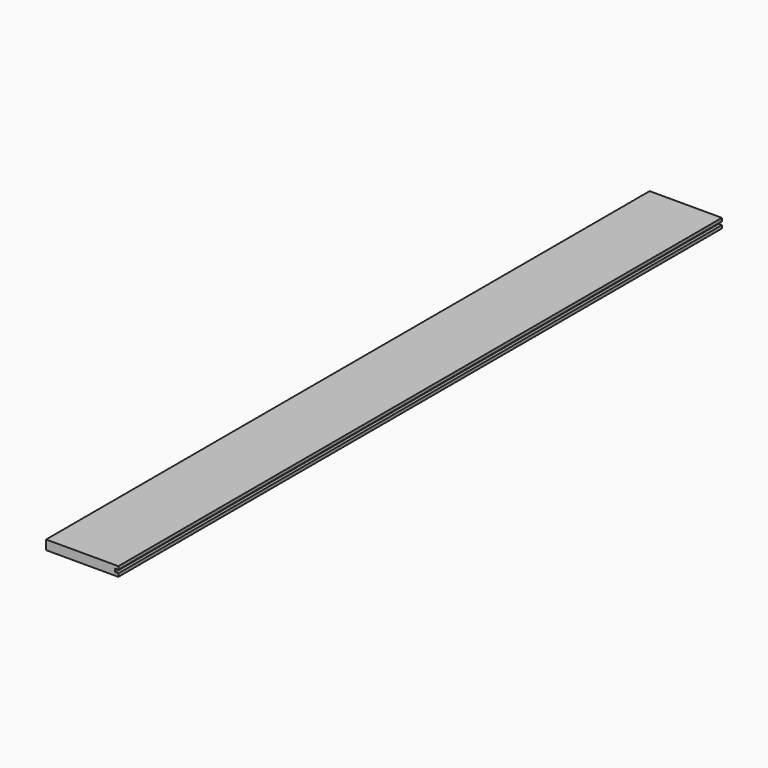
from build123d import *

# Parameters (mm, degrees)
F0_W     = 6.35
F0_H     = 6.35
F1_DEPTH = 762


with BuildPart() as f1:
    # F0 (on Front) → F1 (new body, symmetric)
    with BuildSketch(Plane.XZ):
        Polygon((-73.025, -3.175), (-73.025, -9.525), (73.025, -9.525), (73.025, -3.175), (66.675, -3.175), (66.675, 3.175), (73.025, 3.175), (73.025, 9.525), (-73.025, 9.525), (-73.025, 3.175), (-66.675, 3.175), (-66.675, -3.175), align=None)
        with Locations((-69.85, 0)):
            Rectangle(F0_W, F0_H)
    extrude(amount=F1_DEPTH, both=True)


solid = f1.part
